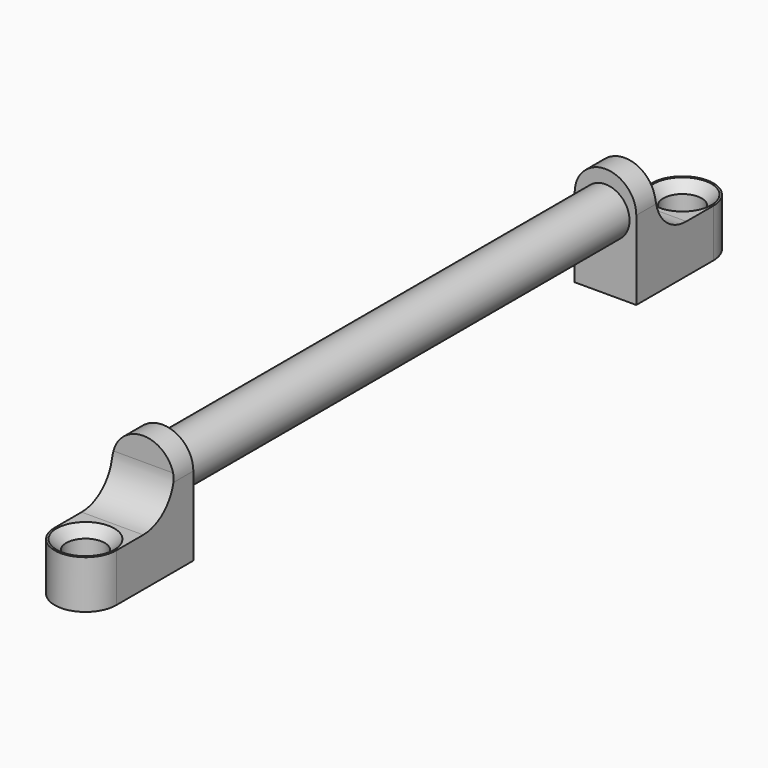
from build123d import *

# Parameters (mm, degrees)
F0_R     = 3.175
F1_DEPTH = 39.6875
F2_W     = 73.025
F2_H     = 18.185855
F3_DEPTH = 12.7
F4_R     = 3.175
F5_DEPTH = 79.375
F6_W     = 9.525
F6_H     = 3.175
F7_DEPTH = 12.7
F8_R     = 2.54
F9_DEPTH = 6.35
F10_R    = 5.08
F11_SIZE = 1.27


with BuildPart() as f1:
    # F0 (on Front) → F1 (new body, symmetric)
    with BuildSketch(Plane.XZ):
        with BuildLine():
            Line((4.064, 0), (4.064, 10.414))
            ThreePointArc((4.064, 10.414), (0, 14.478), (-4.064, 10.414))
            Line((-4.064, 10.414), (-4.064, 0))
            Line((-4.064, 0), (4.064, 0))
        make_face()
        with Locations((0, 9.525)):
            Circle(F0_R, mode=Mode.SUBTRACT)
    extrude(amount=F1_DEPTH, both=True)

    # F2 (on Right) → F3 (cut, symmetric)
    with BuildSketch(Plane.YZ):
        with Locations((0, 6.139678)):
            Rectangle(F2_W, F2_H)
    extrude(amount=F3_DEPTH, both=True, mode=Mode.SUBTRACT)

    # F4 (on face) → F5 (join)
    with BuildSketch(Plane.XZ.offset(39.6875)):
        with Locations((0, 9.525)):
            Circle(F4_R)
    extrude(amount=-F5_DEPTH)

    # F6 (on Right) → F7 (cut, symmetric)
    with BuildSketch(Plane.YZ):
        with Locations((-30.7975, 2.8575)):
            Rectangle(F6_W, F6_H)
        with Locations((30.7975, 2.8575)):
            Rectangle(F6_W, F6_H)
    extrude(amount=F7_DEPTH, both=True, mode=Mode.SUBTRACT)

    # F8 (on face) → F9 (join)
    with BuildSketch(Plane(origin=(0, 0, 0), x_dir=(1, 0, 0), z_dir=(0, 0, -1))):
        with BuildLine():
            Line((-4.064, 36.5125), (4.064, 36.5125))
            Line((4.064, 36.5125), (4.064, 49.2125))
            ThreePointArc((4.064, 49.2125), (0, 53.2765), (-4.064, 49.2125))
            Line((-4.064, 49.2125), (-4.064, 36.5125))
        make_face()
        with Locations((0, 49.2125)):
            Circle(F8_R, mode=Mode.SUBTRACT)
        with BuildLine():
            ThreePointArc((-4.064, -49.2125), (0, -53.2765), (4.064, -49.2125))
            Line((4.064, -49.2125), (4.064, -36.5125))
            Line((4.064, -36.5125), (-4.064, -36.5125))
            Line((-4.064, -36.5125), (-4.064, -49.2125))
        make_face()
        with Locations((0, -49.2125)):
            Circle(F8_R, mode=Mode.SUBTRACT)
    extrude(amount=-F9_DEPTH)

    # F10
    f10_edges = [f1.edges().sort_by_distance(p)[0] for p in [
        (0, 39.6875, 6.35),
        (0, -39.6875, 6.35),
    ]]
    fillet(f10_edges, radius=F10_R)

    # F11
    f11_edges = [f1.edges().sort_by_distance(p)[0] for p in [
        (-2.54, -49.2125, 6.35),
        (-2.54, 49.2125, 6.35),
    ]]
    chamfer(f11_edges, length=F11_SIZE)


solid = f1.part
